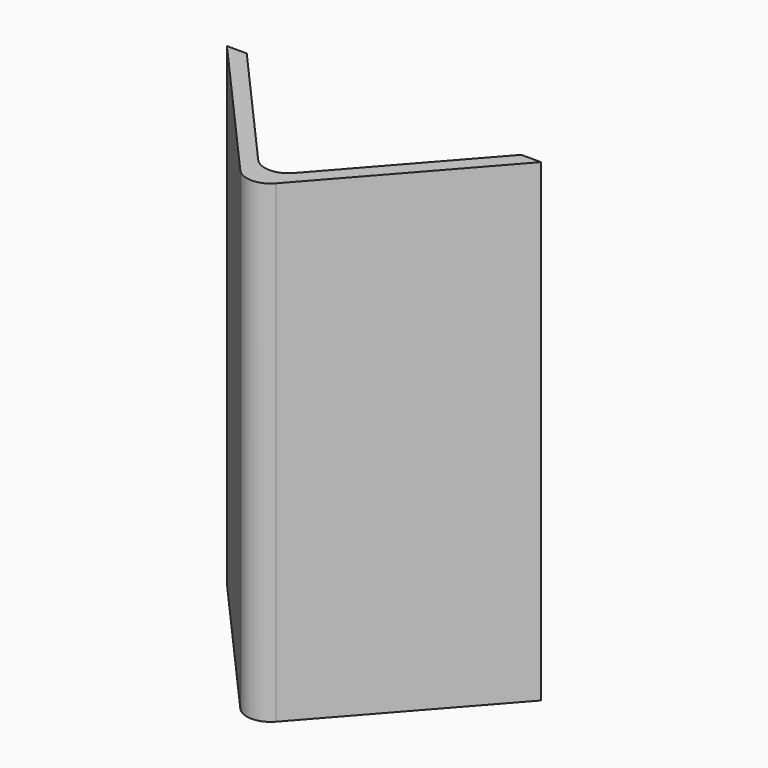
from build123d import *

# Parameters (mm, degrees)
F1_DEPTH = 101.6
F2_R     = 5.08
F3_R     = 5.08


with BuildPart() as f1:
    # F0 (on Top) → F1 (new body)
    with BuildSketch(Plane.XY):
        Polygon((-33.663134, 0), (0, -38.04515), (33.663134, 0), (29.423697, 0), (0, -33.253855), (-29.423697, 0), align=None)
    extrude(amount=F1_DEPTH)

    # F2
    f2_edges = [f1.edges().sort_by_distance(p)[0] for p in [
        (0, -33.253855, 50.8),
    ]]
    fillet(f2_edges, radius=F2_R)

    # F3
    f3_edges = [f1.edges().sort_by_distance(p)[0] for p in [
        (0, -38.04515, 50.8),
    ]]
    fillet(f3_edges, radius=F3_R)


solid = f1.part
